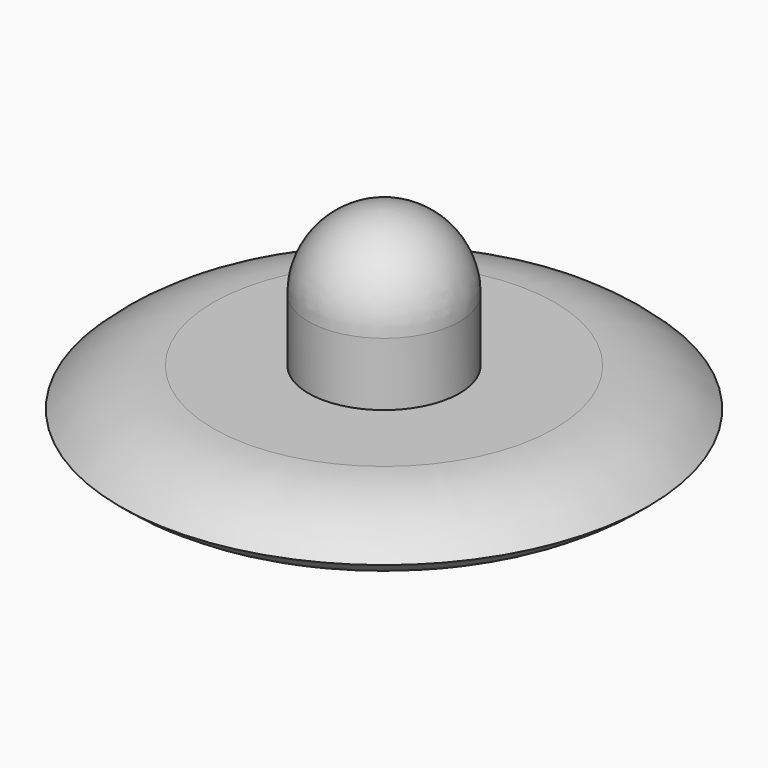
from build123d import *


with BuildPart() as f1:
    # F0 (on Front) → F1 (revolve)
    with BuildSketch(Plane.XZ):
        with BuildLine():
            Line((17.725047, -14.82689), (17.725047, 0))
            ThreePointArc((17.725047, 0), (12.533501, 12.533501), (0, 17.725047))
            Line((0, 17.725047), (0, 0))
            Line((0, 0), (0, -32.056697))
            Line((0, -32.056697), (39.808328, -32.056697))
            ThreePointArc((39.808328, -32.056697), (51.713447, -30.114751), (61.992884, -23.80316))
            ThreePointArc((61.992884, -23.80316), (51.925853, -17.158019), (40.090784, -14.82689))
            Line((40.090784, -14.82689), (17.725047, -14.82689))
        make_face()
    revolve(axis=Axis((0, 0, -16.028348), (0, 0, -1)))


solid = f1.part
